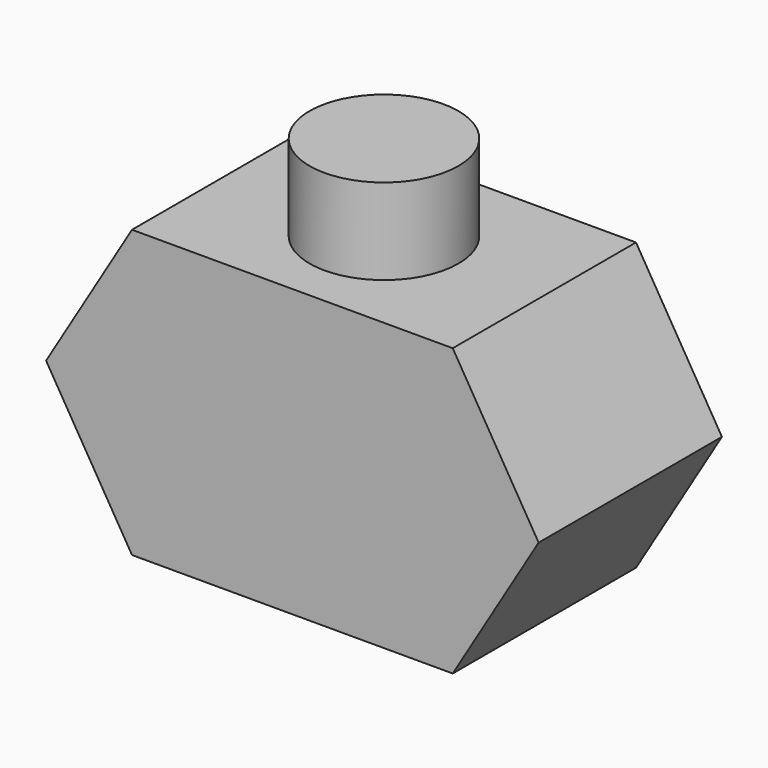
from build123d import *

# Parameters (mm, degrees)
F1_DEPTH = 20
F0_W     = 13
F0_H     = 15


with BuildPart() as f1:
    # F0 (on Front) → F1 (new body, symmetric)
    with BuildSketch(Plane.XZ):
        Polygon((-15, 25), (0, 0), (56, 0), (71, 25), (56, 50), (41, 50), (28, 50), (0, 50), align=None)
    extrude(amount=F1_DEPTH, both=True)

    # F0 (on Front) → F2 (revolve)
    with BuildSketch(Plane.XZ):
        with Locations((34.5, 57.5)):
            Rectangle(F0_W, F0_H)
    revolve(axis=Axis((28, 0, 57.5), (0, 0, 1)))


solid = f1.part
